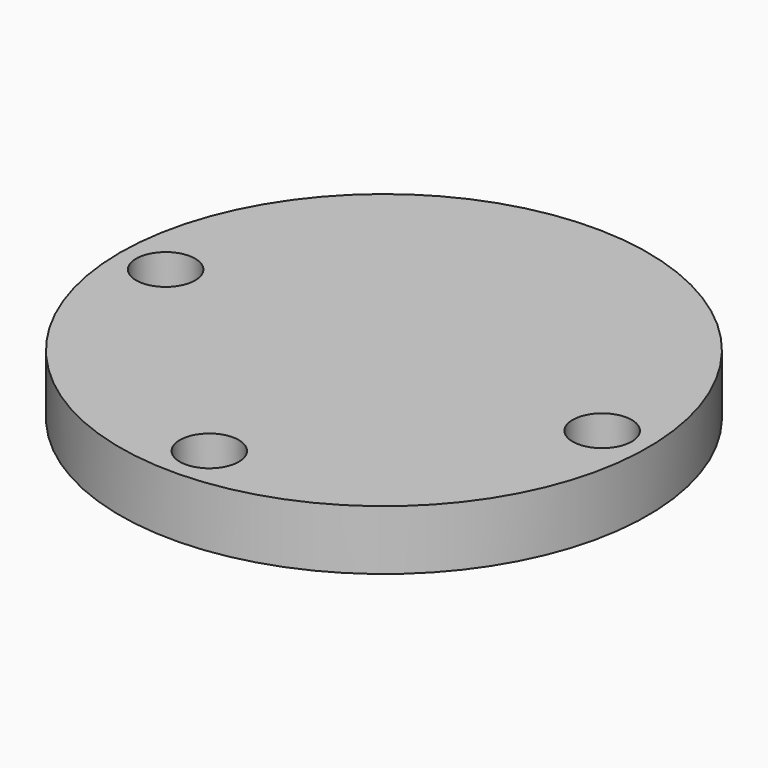
from build123d import *

# Parameters (mm, degrees)
F0_W     = 47.5273691118
F0_H     = 10.7533988893
F2_R     = 5.3111422427
F3_DEPTH = 10.7543988893
F2_R_2   = 4.6185221062
F4_DEPTH = 2


with BuildPart() as f1:
    # F0 (on Front) → F1 (revolve)
    with BuildSketch(Plane.XZ):
        with Locations((-23.7636845559, -5.3766994447)):
            Rectangle(F0_W, F0_H)
    revolve(axis=Axis((0, 0, 11.207267642), (0, 0, 1)))

    # F2 (on face) → F3 (cut, through all)
    with BuildSketch(Plane(origin=(0, 0, -10.7533988893), x_dir=(1, 0, 0), z_dir=(0, 0, -1))):
        with Locations((-39.2993532375, 0)):
            Circle(F2_R)
        with Locations((0, 39.2993532375)):
            Circle(F2_R)
        with Locations((39.2993532375, 0)):
            Circle(F2_R)
    extrude(amount=-F3_DEPTH, mode=Mode.SUBTRACT)

    # F2 (on face) → F4 (cut)
    with BuildSketch(Plane(origin=(0, 0, -10.7533988893), x_dir=(1, 0, 0), z_dir=(0, 0, -1))):
        with Locations((-27.7888391705, 27.7888391705)):
            Circle(F2_R_2)
    extrude(amount=-F4_DEPTH, mode=Mode.SUBTRACT)


solid = f1.part
